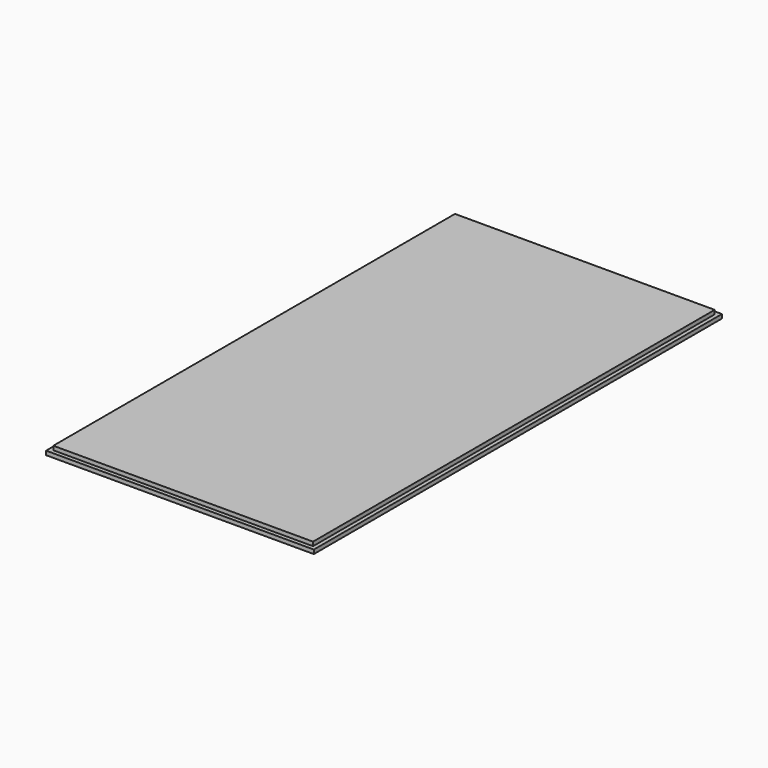
from build123d import *

# Parameters (mm, degrees)
F0_W     = 400
F0_H     = 762
F1_DEPTH = 12
F2_W     = 6
F2_H     = 762
F3_DEPTH = 6
F4_W     = 6
F4_H     = 762
F5_DEPTH = 6
F6_W     = 388
F6_H     = 6
F7_DEPTH = 6
F8_W     = 388
F8_H     = 6
F9_DEPTH = 6


with BuildPart() as f1:
    # F0 (on Top) → F1 (new body)
    with BuildSketch(Plane.XY):
        Rectangle(F0_W, F0_H)
    extrude(amount=F1_DEPTH)

    # F2 (on face) → F3 (cut)
    with BuildSketch(Plane.XY.offset(12)):
        with Locations((-197, 0)):
            Rectangle(F2_W, F2_H)
    extrude(amount=-F3_DEPTH, mode=Mode.SUBTRACT)

    # F4 (on face) → F5 (cut)
    with BuildSketch(Plane.XY.offset(12)):
        with Locations((197, 0)):
            Rectangle(F4_W, F4_H)
    extrude(amount=-F5_DEPTH, mode=Mode.SUBTRACT)

    # F6 (on face) → F7 (cut)
    with BuildSketch(Plane.XY.offset(12)):
        with Locations((0, 378)):
            Rectangle(F6_W, F6_H)
    extrude(amount=-F7_DEPTH, mode=Mode.SUBTRACT)

    # F8 (on face) → F9 (cut)
    with BuildSketch(Plane.XY.offset(12)):
        with Locations((0, -378)):
            Rectangle(F8_W, F8_H)
    extrude(amount=-F9_DEPTH, mode=Mode.SUBTRACT)


solid = f1.part
